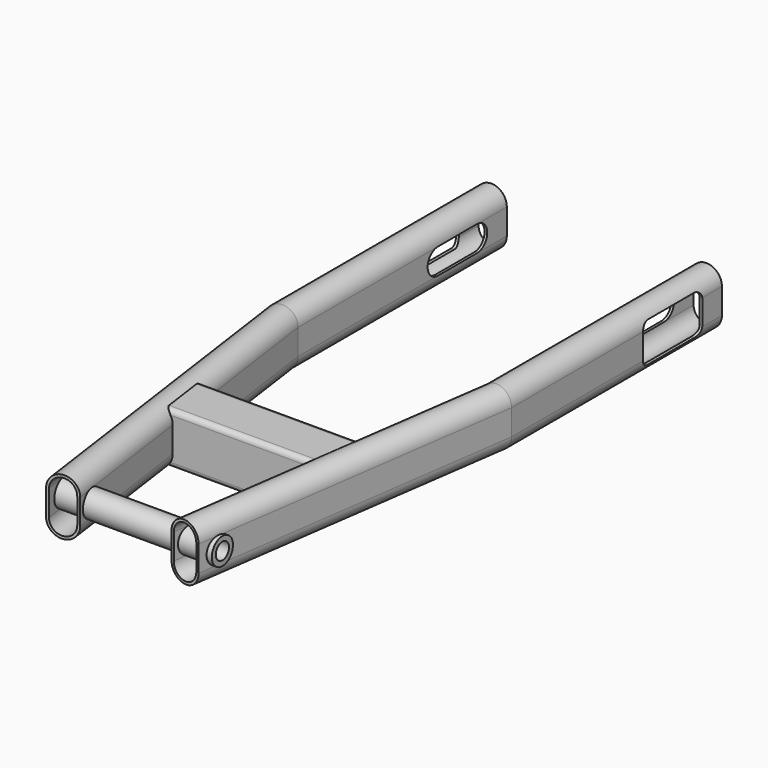
from build123d import *

# Parameters (mm, degrees)
F4_R      = 8
F5_DEPTH  = 50
F6_R      = 5
F7_DEPTH  = 110
F13_DEPTH = 25
F15_DEPTH = 25
F17_DEPTH = 35
F20_DEPTH = 35


with BuildPart() as f2:
    # F2: sweep along a path in F1
    with BuildLine(Plane.XY) as f2_path:
        Line((-65, 0), (-65, -158.3))
        Line((-65, -158.3), (-36.8369312897, -358.6906463905))
    # F0 (on Front) → F2 (sweep)
    with BuildSketch(Plane.XZ):
        with BuildLine():
            Line((-55.65, -7.75), (-55.65, 7.75))
            ThreePointArc((-55.65, 7.75), (-65, 17.1), (-74.35, 7.75))
            Line((-74.35, 7.75), (-74.35, -7.75))
            ThreePointArc((-74.35, -7.75), (-65, -17.1), (-55.65, -7.75))
        make_face()
        with BuildLine():
            Line((-57.25, 7.75), (-57.25, -7.75))
            ThreePointArc((-57.25, -7.75), (-65, -15.5), (-72.75, -7.75))
            Line((-72.75, -7.75), (-72.75, 7.75))
            ThreePointArc((-72.75, 7.75), (-65, 15.5), (-57.25, 7.75))
        make_face(mode=Mode.SUBTRACT)
    sweep(path=f2_path.line, transition=Transition.RIGHT)


with BuildPart() as f3_1:
    # F3: instance of F2
    add(f2.part.mirror(Plane.YZ))


with BuildPart() as f2_1:
    add(f2.part)

    add(f3_1.part)  # F5 merges F3_1
    # F4 (on Right) → F5 (join, symmetric)
    with BuildSketch(Plane.YZ):
        with Locations((-346.9093778966, 0)):
            Circle(F4_R)
    extrude(amount=F5_DEPTH, both=True)

    # F6 (on face) → F7 (cut)
    with BuildSketch(Plane.YZ.offset(50)):
        with Locations((-346.9093778966, 0)):
            Circle(F6_R)
    extrude(amount=-F7_DEPTH, mode=Mode.SUBTRACT)

    # F8 (on Right) → F10 (join, up to the next surface of F2)
    with BuildSketch(Plane.YZ):
        with BuildLine():
            Line((-269.5793778966, -15.5), (-244.5793778966, -15.5))
            ThreePointArc((-244.5793778966, -15.5), (-242.458057553, -14.6213203436), (-241.5793778966, -12.5))
            Line((-241.5793778966, -12.5), (-241.5793778966, 12.5))
            ThreePointArc((-241.5793778966, 12.5), (-242.458057553, 14.6213203436), (-244.5793778966, 15.5))
            Line((-244.5793778966, 15.5), (-269.5793778966, 15.5))
            ThreePointArc((-269.5793778966, 15.5), (-271.7006982401, 14.6213203436), (-272.5793778966, 12.5))
            Line((-272.5793778966, 12.5), (-272.5793778966, -12.5))
            ThreePointArc((-272.5793778966, -12.5), (-271.7006982401, -14.6213203436), (-269.5793778966, -15.5))
        make_face()
        with BuildLine():
            Line((-246.1793778966, -13.9), (-267.9793778966, -13.9))
            ThreePointArc((-267.9793778966, -13.9), (-270.1006982401, -13.0213203436), (-270.9793778966, -10.9))
            Line((-270.9793778966, -10.9), (-270.9793778966, 10.9))
            ThreePointArc((-270.9793778966, 10.9), (-270.1006982401, 13.0213203436), (-267.9793778966, 13.9))
            Line((-267.9793778966, 13.9), (-246.1793778966, 13.9))
            ThreePointArc((-246.1793778966, 13.9), (-244.058057553, 13.0213203436), (-243.1793778966, 10.9))
            Line((-243.1793778966, 10.9), (-243.1793778966, -10.9))
            ThreePointArc((-243.1793778966, -10.9), (-244.058057553, -13.0213203436), (-246.1793778966, -13.9))
        make_face(mode=Mode.SUBTRACT)
    extrude(until=Until.NEXT)

    # F8 (on Right) → F11 (join, up to the next surface of F2)
    with BuildSketch(Plane.YZ):
        with BuildLine():
            Line((-269.5793778966, -15.5), (-244.5793778966, -15.5))
            ThreePointArc((-244.5793778966, -15.5), (-242.458057553, -14.6213203436), (-241.5793778966, -12.5))
            Line((-241.5793778966, -12.5), (-241.5793778966, 12.5))
            ThreePointArc((-241.5793778966, 12.5), (-242.458057553, 14.6213203436), (-244.5793778966, 15.5))
            Line((-244.5793778966, 15.5), (-269.5793778966, 15.5))
            ThreePointArc((-269.5793778966, 15.5), (-271.7006982401, 14.6213203436), (-272.5793778966, 12.5))
            Line((-272.5793778966, 12.5), (-272.5793778966, -12.5))
            ThreePointArc((-272.5793778966, -12.5), (-271.7006982401, -14.6213203436), (-269.5793778966, -15.5))
        make_face()
        with BuildLine():
            Line((-246.1793778966, -13.9), (-267.9793778966, -13.9))
            ThreePointArc((-267.9793778966, -13.9), (-270.1006982401, -13.0213203436), (-270.9793778966, -10.9))
            Line((-270.9793778966, -10.9), (-270.9793778966, 10.9))
            ThreePointArc((-270.9793778966, 10.9), (-270.1006982401, 13.0213203436), (-267.9793778966, 13.9))
            Line((-267.9793778966, 13.9), (-246.1793778966, 13.9))
            ThreePointArc((-246.1793778966, 13.9), (-244.058057553, 13.0213203436), (-243.1793778966, 10.9))
            Line((-243.1793778966, 10.9), (-243.1793778966, -10.9))
            ThreePointArc((-243.1793778966, -10.9), (-244.058057553, -13.0213203436), (-246.1793778966, -13.9))
        make_face(mode=Mode.SUBTRACT)
    extrude(until=Until.NEXT, dir=(-1, 0, 0))

    # F12 (on face) → F13 (cut)
    with BuildSketch(Plane.YZ.offset(74.35)):
        with BuildLine():
            Line((-52.04, -7.75), (-22.54, -7.75))
            ThreePointArc((-22.54, -7.75), (-14.79, 0), (-22.54, 7.75))
            Line((-22.54, 7.75), (-52.04, 7.75))
            ThreePointArc((-52.04, 7.75), (-59.79, 0), (-52.04, -7.75))
        make_face()
    extrude(amount=-F13_DEPTH, mode=Mode.SUBTRACT)

    # F14 (on face) → F15 (cut)
    with BuildSketch(Plane(origin=(-74.35, 0, 0), x_dir=(0, -1, 0), z_dir=(-1, 0, 0))):
        with BuildLine():
            Line((22.54, -7.75), (52.04, -7.75))
            ThreePointArc((52.04, -7.75), (59.79, 0), (52.04, 7.75))
            Line((52.04, 7.75), (22.54, 7.75))
            ThreePointArc((22.54, 7.75), (14.79, 0), (22.54, -7.75))
        make_face()
    extrude(amount=-F15_DEPTH, mode=Mode.SUBTRACT)

    # F16 (on offset) → F17 (cut)
    with BuildSketch(Plane.YZ.offset(99.35)):
        with BuildLine():
            Line((-54.76, -12), (-19.76, -12))
            ThreePointArc((-19.76, -12), (-16.2244660941, -10.5355339059), (-14.76, -7))
            Line((-14.76, -7), (-14.76, 7))
            ThreePointArc((-14.76, 7), (-16.2244660941, 10.5355339059), (-19.76, 12))
            Line((-19.76, 12), (-54.76, 12))
            ThreePointArc((-54.76, 12), (-58.2955339059, 10.5355339059), (-59.76, 7))
            Line((-59.76, 7), (-59.76, -7))
            ThreePointArc((-59.76, -7), (-58.2955339059, -10.5355339059), (-54.76, -12))
        make_face()
    extrude(amount=-F17_DEPTH, mode=Mode.SUBTRACT)

    # F19 (on offset) → F20 (cut)
    with BuildSketch(Plane(origin=(-99.35, 0, 0), x_dir=(0, -1, 0), z_dir=(-1, 0, 0))):
        with BuildLine():
            Line((19.76, -12), (54.76, -12))
            ThreePointArc((54.76, -12), (58.2955339059, -10.5355339059), (59.76, -7))
            Line((59.76, -7), (59.76, 7))
            ThreePointArc((59.76, 7), (58.2955339059, 10.5355339059), (54.76, 12))
            Line((54.76, 12), (19.76, 12))
            ThreePointArc((19.76, 12), (16.2244660941, 10.5355339059), (14.76, 7))
            Line((14.76, 7), (14.76, -7))
            ThreePointArc((14.76, -7), (16.2244660941, -10.5355339059), (19.76, -12))
        make_face()
    extrude(amount=-F20_DEPTH, mode=Mode.SUBTRACT)


solid = f2_1.part
